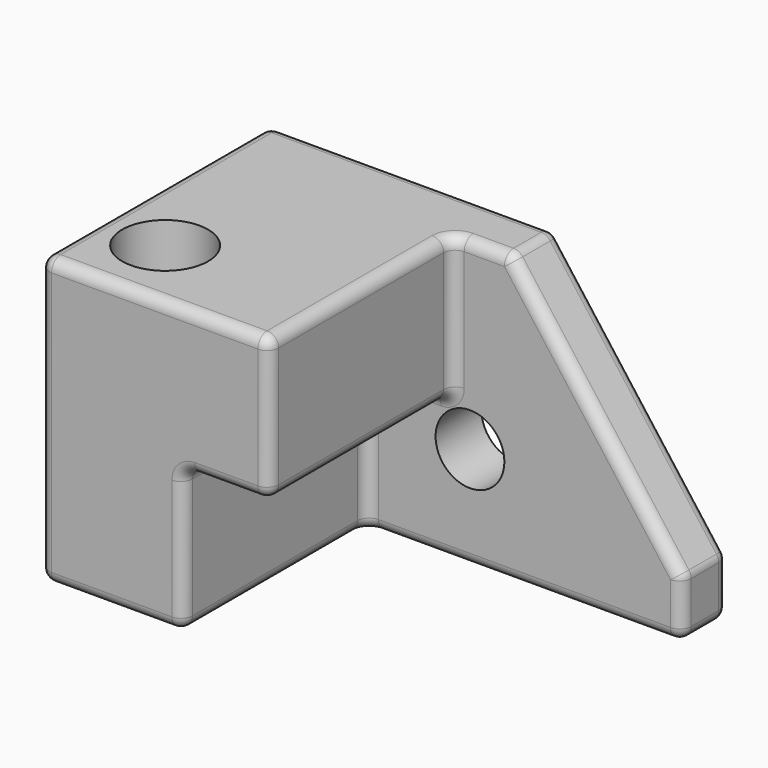
from build123d import *

# Parameters (mm, degrees)
F0_W     = 203.2
F0_H     = 127
F1_DEPTH = 127
F3_DEPTH = 101.6
F4_SIZE2 = 101.6
F4_SIZE  = 76.2
F5_R     = 5.08
F6_R     = 15.24
F7_DEPTH = 25.4
F8_R     = 19.05
F9_DEPTH = 127


with BuildPart() as f1:
    # F0 (on Front) → F1 (new body)
    with BuildSketch(Plane.XZ):
        with Locations((-8.4275533497, -0.4033995528)):
            Rectangle(F0_W, F0_H)
    extrude(amount=F1_DEPTH)

    # F2 (on face) → F3 (cut)
    with BuildSketch(Plane.XZ.offset(127)):
        Polygon((-46.5275533497, -0.4033995528), (-46.5275533497, -63.9033995528), (93.1724466503, -63.9033995528), (93.1724466503, 63.0966004472), (-8.4275533497, 63.0966004472), (-8.4275533497, -0.4033995528), align=None)
    extrude(amount=-F3_DEPTH, mode=Mode.SUBTRACT)

    # F4
    f4_edges = [f1.edges().sort_by_distance(p)[0] for p in [
        (93.172447, -12.7, 63.0966),
    ]]
    f4_side = f1.faces().sort_by_distance((-42.29422, -55.033333, 63.0966))[0]
    chamfer(f4_edges, length=F4_SIZE, length2=F4_SIZE2, reference=f4_side)

    # F5
    f5_edges = [f1.edges().sort_by_distance(p)[0] for p in [
        (-46.527553, 0, 63.0966),
        (16.972447, -12.7, 63.0966),
        (-110.027553, -63.5, 63.0966),
        (4.272447, -25.4, 63.0966),
        (-59.227553, -127, 63.0966),
        (-8.427553, -76.2, 63.0966),
        (-8.427553, -127, 31.3466),
        (-27.477553, -127, -0.4034),
        (-46.527553, -127, -32.1534),
        (-78.277553, -127, -63.9034),
        (-110.027553, -127, -0.4034),
        (-8.427553, -76.2, -0.4034),
        (-8.427553, -25.4, 31.3466),
        (-46.527553, -76.2, -0.4034),
        (-46.527553, -76.2, -63.9034),
        (-46.527553, -25.4, -32.1534),
        (93.172447, -25.4, -51.2034),
        (55.072447, -25.4, 12.2966),
        (23.322447, -25.4, -63.9034),
        (-27.477553, -25.4, -0.4034),
        (55.072447, 0, 12.2966),
        (93.172447, -12.7, -38.5034),
        (93.172447, 0, -51.2034),
        (93.172447, -12.7, -63.9034),
        (-110.027553, -63.5, -63.9034),
        (-110.027553, 0, -0.4034),
        (-8.427553, 0, -63.9034),
    ]]
    fillet(f5_edges, radius=F5_R)

    # F6 (on face) → F7 (cut, through all)
    with BuildSketch(Plane.XZ.offset(25.4)):
        with Locations((-0.8075533497, -18.1833995528)):
            Circle(F6_R)
    extrude(amount=-F7_DEPTH, mode=Mode.SUBTRACT)

    # F8 (on face) → F9 (cut, through all)
    with BuildSketch(Plane.XY.offset(63.0966004472)):
        with Locations((-81.0180455446, -93.9986258745)):
            Circle(F8_R)
    extrude(amount=-F9_DEPTH, mode=Mode.SUBTRACT)


solid = f1.part
